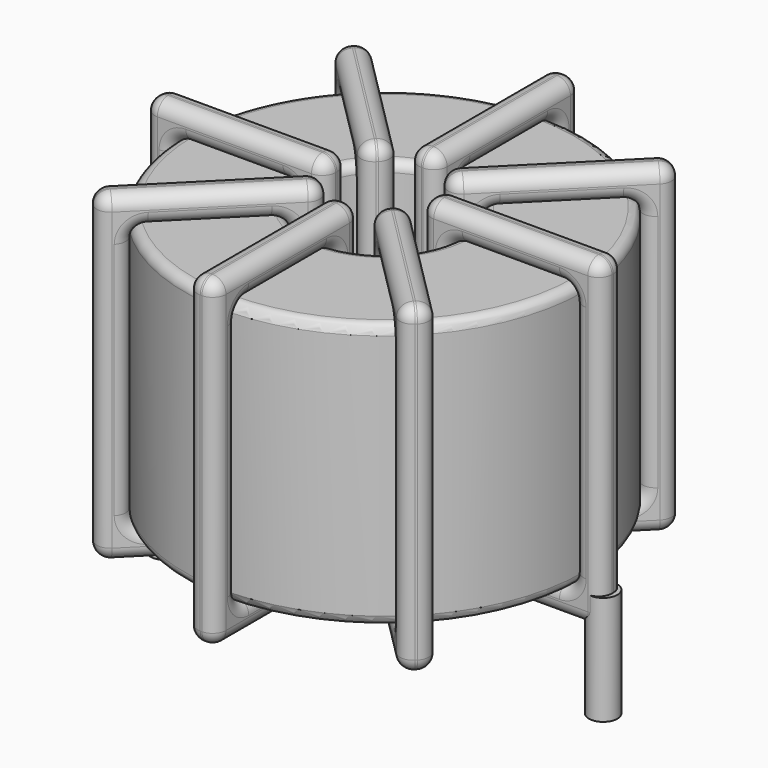
from build123d import *

# Parameters (mm, degrees)
SKETCH001_R       = 0.75
PAD001_DEPTH      = 0.75
PAD001_DEPTH_BACK = 5
SKETCH_R          = 10.55
SKETCH_R_2        = 4.016667
PAD_DEPTH         = 14
FILLET_R          = 0.5
SKETCH003_W       = 9.533333
SKETCH003_H       = 17
SKETCH003_W_2     = 6.533333
SKETCH003_H_2     = 14
PAD002_DEPTH      = 0.75
FILLET001_R       = 0.705
SKETCH004_W       = 9.533333
SKETCH004_H       = 17
SKETCH004_W_2     = 6.533333
SKETCH004_H_2     = 14
PAD003_DEPTH      = 0.75
FILLET002_R       = 0.705
SKETCH005_W       = 9.533333
SKETCH005_H       = 17
SKETCH005_W_2     = 6.533333
SKETCH005_H_2     = 14
PAD004_DEPTH      = 0.75
FILLET003_R       = 0.705
SKETCH006_W       = 9.533333
SKETCH006_H       = 17
SKETCH006_W_2     = 6.533333
SKETCH006_H_2     = 14
PAD005_DEPTH      = 0.75
FILLET004_R       = 0.705


with BuildPart() as pad001:
    # Sketch001 → Pad001 (new body, two sides)
    with BuildSketch(Plane.XY.offset(1.25)) as pad001_sk:
        Circle(SKETCH001_R)
        with Locations((23.1, 0)):
            Circle(SKETCH001_R)
    extrude(amount=PAD001_DEPTH)
    extrude(pad001_sk.sketch, amount=-PAD001_DEPTH_BACK)


with BuildPart() as fillet_body:
    # Sketch → Pad (new body)
    with BuildSketch(Plane.XY.offset(2)):
        with Locations((11.55, 0)):
            Circle(SKETCH_R)
        with Locations((11.55, 0)):
            Circle(SKETCH_R_2, mode=Mode.SUBTRACT)
    extrude(amount=PAD_DEPTH)

    # Fillet
    fillet_edges = [fillet_body.edges().sort_by_distance(p)[0] for p in [
        (7.533333, 0, 16),
        (1, 0, 16),
        (1, 0, 2),
    ]]
    fillet(fillet_edges, radius=FILLET_R)


with BuildPart() as fillet001:
    # Sketch003 → Pad002 (new body, symmetric)
    with BuildSketch(Plane(origin=(11.55, 0, 0), x_dir=(1, 0, 0), z_dir=(0, -1, 0))):
        with Locations((-7.283333, 9)):
            Rectangle(SKETCH003_W, SKETCH003_H)
        with Locations((-7.283333, 9)):
            Rectangle(SKETCH003_W_2, SKETCH003_H_2, mode=Mode.SUBTRACT)
        with Locations((7.283333, 9)):
            Rectangle(SKETCH003_W, SKETCH003_H)
        with Locations((7.283333, 9)):
            Rectangle(SKETCH003_W_2, SKETCH003_H_2, mode=Mode.SUBTRACT)
    extrude(amount=PAD002_DEPTH, both=True)

    # Fillet001
    fillet001_edges = [fillet001.edges().sort_by_distance(p)[0] for p in [
        (7.533333, 0, 16),
        (7.533333, 0, 2),
        (7.533333, 0.75, 9),
        (7.533333, -0.75, 9),
        (-0.5, 0, 17.5),
        (9.033333, 0, 17.5),
        (4.266667, 0.75, 17.5),
        (4.266667, -0.75, 17.5),
        (9.033333, 0, 0.5),
        (9.033333, 0.75, 9),
        (9.033333, -0.75, 9),
        (15.566667, 0, 16),
        (22.1, 0, 16),
        (18.833333, 0.75, 16),
        (18.833333, -0.75, 16),
        (22.1, 0, 2),
        (22.1, 0.75, 9),
        (22.1, -0.75, 9),
        (14.066667, 0, 17.5),
        (23.6, 0, 17.5),
        (18.833333, 0.75, 17.5),
        (18.833333, -0.75, 17.5),
        (23.6, 0, 0.5),
        (23.6, 0.75, 9),
        (23.6, -0.75, 9),
        (1, 0, 16),
        (4.266667, 0.75, 16),
        (4.266667, -0.75, 16),
        (15.566667, 0, 2),
        (15.566667, 0.75, 9),
        (15.566667, -0.75, 9),
        (18.833333, 0.75, 2),
        (18.833333, -0.75, 2),
        (14.066667, 0, 0.5),
        (18.833333, 0.75, 0.5),
        (18.833333, -0.75, 0.5),
        (14.066667, 0.75, 9),
        (14.066667, -0.75, 9),
        (-0.5, 0, 0.5),
        (4.266667, 0.75, 0.5),
        (4.266667, -0.75, 0.5),
        (-0.5, 0.75, 9),
        (-0.5, -0.75, 9),
        (1, 0, 2),
        (1, 0.75, 9),
        (1, -0.75, 9),
        (4.266667, 0.75, 2),
        (4.266667, -0.75, 2),
    ]]
    fillet(fillet001_edges, radius=FILLET001_R)


with BuildPart() as fillet002:
    # Sketch004 → Pad003 (new body, symmetric)
    with BuildSketch(Plane(origin=(11.55, 0, 0), x_dir=(0.707107, 0.707107, 0), z_dir=(0.707107, -0.707107, 0))):
        with Locations((-7.283333, 9)):
            Rectangle(SKETCH004_W, SKETCH004_H)
        with Locations((-7.283333, 9)):
            Rectangle(SKETCH004_W_2, SKETCH004_H_2, mode=Mode.SUBTRACT)
        with Locations((7.283333, 9)):
            Rectangle(SKETCH004_W, SKETCH004_H)
        with Locations((7.283333, 9)):
            Rectangle(SKETCH004_W_2, SKETCH004_H_2, mode=Mode.SUBTRACT)
    extrude(amount=PAD003_DEPTH, both=True)

    # Fillet002
    fillet002_edges = [fillet002.edges().sort_by_distance(p)[0] for p in [
        (8.709788, -2.840212, 16),
        (8.709788, -2.840212, 2),
        (8.179458, -2.309882, 9),
        (9.240118, -3.370542, 9),
        (3.029363, -8.520637, 17.5),
        (9.770448, -1.779552, 17.5),
        (5.869576, -4.619764, 17.5),
        (6.930236, -5.680424, 17.5),
        (9.770448, -1.779552, 0.5),
        (9.240118, -1.249222, 9),
        (10.300778, -2.309882, 9),
        (14.390212, 2.840212, 16),
        (19.009977, 7.459977, 16),
        (16.169764, 5.680424, 16),
        (17.230424, 4.619764, 16),
        (19.009977, 7.459977, 2),
        (18.479646, 7.990307, 9),
        (19.540307, 6.929646, 9),
        (13.329552, 1.779552, 0.5),
        (13.329552, 1.779552, 17.5),
        (12.799222, 2.309882, 9),
        (13.859882, 1.249222, 9),
        (20.070637, 8.520637, 0.5),
        (16.169764, 5.680424, 0.5),
        (17.230424, 4.619764, 0.5),
        (4.090023, -7.459977, 16),
        (5.869576, -4.619764, 16),
        (6.930236, -5.680424, 16),
        (14.390212, 2.840212, 2),
        (13.859882, 3.370542, 9),
        (14.920542, 2.309882, 9),
        (16.169764, 5.680424, 2),
        (17.230424, 4.619764, 2),
        (20.070637, 8.520637, 17.5),
        (19.540307, 9.050967, 9),
        (20.600967, 7.990307, 9),
        (16.169764, 5.680424, 17.5),
        (17.230424, 4.619764, 17.5),
        (3.029363, -8.520637, 0.5),
        (5.869576, -4.619764, 0.5),
        (6.930236, -5.680424, 0.5),
        (2.499033, -7.990307, 9),
        (3.559693, -9.050967, 9),
        (4.090023, -7.459977, 2),
        (3.559693, -6.929646, 9),
        (4.620354, -7.990307, 9),
        (5.869576, -4.619764, 2),
        (6.930236, -5.680424, 2),
    ]]
    fillet(fillet002_edges, radius=FILLET002_R)


with BuildPart() as fillet003:
    # Sketch005 → Pad004 (new body, symmetric)
    with BuildSketch(Plane(origin=(11.55, 0, 0), x_dir=(0.707107, -0.707107, 0), z_dir=(-0.707107, -0.707107, 0))):
        with Locations((-7.283333, 9)):
            Rectangle(SKETCH005_W, SKETCH005_H)
        with Locations((-7.283333, 9)):
            Rectangle(SKETCH005_W_2, SKETCH005_H_2, mode=Mode.SUBTRACT)
        with Locations((7.283333, 9)):
            Rectangle(SKETCH005_W, SKETCH005_H)
        with Locations((7.283333, 9)):
            Rectangle(SKETCH005_W_2, SKETCH005_H_2, mode=Mode.SUBTRACT)
    extrude(amount=PAD004_DEPTH, both=True)

    # Fillet003
    fillet003_edges = [fillet003.edges().sort_by_distance(p)[0] for p in [
        (4.090023, 7.459977, 16),
        (8.709788, 2.840212, 2),
        (6.930236, 5.680424, 2),
        (5.869576, 4.619764, 2),
        (3.029363, 8.520637, 17.5),
        (3.029363, 8.520637, 0.5),
        (3.559693, 9.050967, 9),
        (2.499033, 7.990307, 9),
        (9.770448, 1.779552, 17.5),
        (6.930236, 5.680424, 0.5),
        (5.869576, 4.619764, 0.5),
        (14.390212, -2.840212, 2),
        (14.390212, -2.840212, 16),
        (14.920542, -2.309882, 9),
        (13.859882, -3.370542, 9),
        (19.009977, -7.459977, 2),
        (17.230424, -4.619764, 2),
        (16.169764, -5.680424, 2),
        (13.329552, -1.779552, 0.5),
        (13.329552, -1.779552, 17.5),
        (13.859882, -1.249222, 9),
        (12.799222, -2.309882, 9),
        (20.070637, -8.520637, 0.5),
        (17.230424, -4.619764, 0.5),
        (16.169764, -5.680424, 0.5),
        (4.090023, 7.459977, 2),
        (4.620354, 7.990307, 9),
        (3.559693, 6.929646, 9),
        (19.009977, -7.459977, 16),
        (17.230424, -4.619764, 16),
        (16.169764, -5.680424, 16),
        (19.540307, -6.929646, 9),
        (18.479646, -7.990307, 9),
        (20.070637, -8.520637, 17.5),
        (20.600967, -7.990307, 9),
        (19.540307, -9.050967, 9),
        (17.230424, -4.619764, 17.5),
        (16.169764, -5.680424, 17.5),
        (9.770448, 1.779552, 0.5),
        (10.300778, 2.309882, 9),
        (9.240118, 1.249222, 9),
        (6.930236, 5.680424, 17.5),
        (5.869576, 4.619764, 17.5),
        (8.709788, 2.840212, 16),
        (6.930236, 5.680424, 16),
        (5.869576, 4.619764, 16),
        (9.240118, 3.370542, 9),
        (8.179458, 2.309882, 9),
    ]]
    fillet(fillet003_edges, radius=FILLET003_R)


with BuildPart() as fillet004:
    # Sketch006 → Pad005 (new body, symmetric)
    with BuildSketch(Plane.YZ.offset(11.55)):
        with Locations((-7.283333, 9)):
            Rectangle(SKETCH006_W, SKETCH006_H)
        with Locations((-7.283333, 9)):
            Rectangle(SKETCH006_W_2, SKETCH006_H_2, mode=Mode.SUBTRACT)
        with Locations((7.283333, 9)):
            Rectangle(SKETCH006_W, SKETCH006_H)
        with Locations((7.283333, 9)):
            Rectangle(SKETCH006_W_2, SKETCH006_H_2, mode=Mode.SUBTRACT)
    extrude(amount=PAD005_DEPTH, both=True)

    # Fillet004
    fillet004_edges = [fillet004.edges().sort_by_distance(p)[0] for p in [
        (11.55, -4.016667, 16),
        (11.55, -4.016667, 2),
        (10.8, -4.016667, 9),
        (12.3, -4.016667, 9),
        (11.55, -12.05, 17.5),
        (11.55, -2.516667, 17.5),
        (10.8, -7.283333, 17.5),
        (12.3, -7.283333, 17.5),
        (11.55, -2.516667, 0.5),
        (10.8, -2.516667, 9),
        (12.3, -2.516667, 9),
        (11.55, 4.016667, 16),
        (11.55, 10.55, 16),
        (10.8, 7.283333, 16),
        (12.3, 7.283333, 16),
        (11.55, 10.55, 2),
        (10.8, 10.55, 9),
        (12.3, 10.55, 9),
        (11.55, 2.516667, 17.5),
        (11.55, 12.05, 17.5),
        (10.8, 7.283333, 17.5),
        (12.3, 7.283333, 17.5),
        (11.55, 12.05, 0.5),
        (10.8, 12.05, 9),
        (12.3, 12.05, 9),
        (11.55, -10.55, 16),
        (10.8, -7.283333, 16),
        (12.3, -7.283333, 16),
        (11.55, 4.016667, 2),
        (10.8, 4.016667, 9),
        (12.3, 4.016667, 9),
        (10.8, 7.283333, 2),
        (12.3, 7.283333, 2),
        (11.55, 2.516667, 0.5),
        (10.8, 7.283333, 0.5),
        (12.3, 7.283333, 0.5),
        (10.8, 2.516667, 9),
        (12.3, 2.516667, 9),
        (11.55, -12.05, 0.5),
        (10.8, -7.283333, 0.5),
        (12.3, -7.283333, 0.5),
        (10.8, -12.05, 9),
        (12.3, -12.05, 9),
        (11.55, -10.55, 2),
        (10.8, -10.55, 9),
        (12.3, -10.55, 9),
        (10.8, -7.283333, 2),
        (12.3, -7.283333, 2),
    ]]
    fillet(fillet004_edges, radius=FILLET004_R)


solid = Compound([pad001.part, fillet_body.part, fillet001.part, fillet002.part, fillet003.part, fillet004.part])
